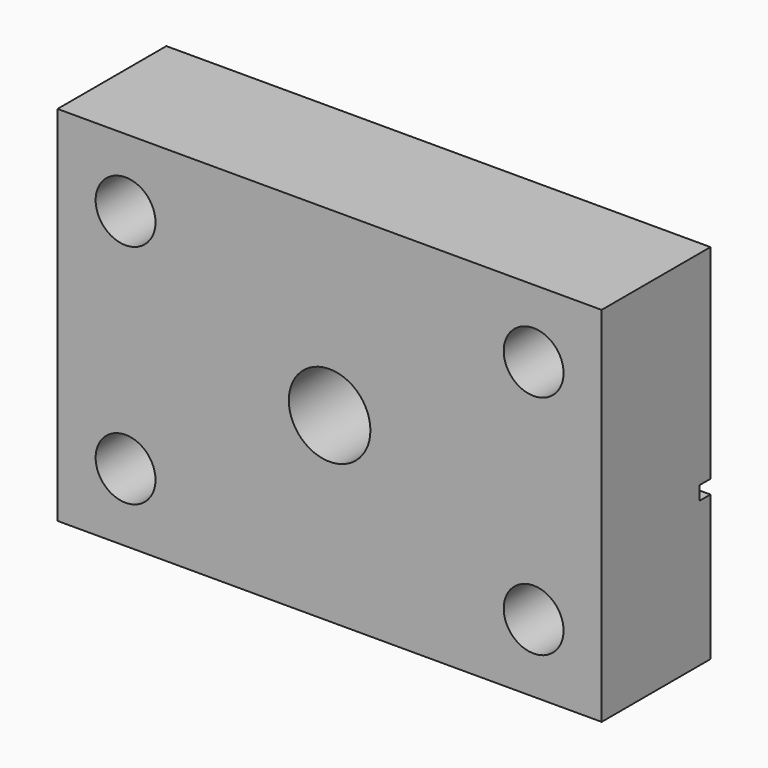
from build123d import *

# Parameters (mm, degrees)
SKETCH002_W   = 60
SKETCH002_H   = 40
PAD001_DEPTH  = 15
SKETCH003_R   = 4.5
HOLE001_DEPTH = 15.001
SKETCH004_W   = 1.52
SKETCH004_H   = 1.52
POCKET_DEPTH  = 30.001
SKETCH006_R   = 3.3
HOLE003_DEPTH = 15.001


with BuildPart() as part:
    # Sketch002 → Pad001 (new body)
    with BuildSketch(Plane.XZ):
        with Locations((0, 20)):
            Rectangle(SKETCH002_W, SKETCH002_H)
    extrude(amount=PAD001_DEPTH)

    # Sketch003 → Hole001 (cut, through all)
    with BuildSketch(Plane.XZ):
        with Locations((0, 20)):
            Circle(SKETCH003_R)
    extrude(amount=HOLE001_DEPTH, mode=Mode.SUBTRACT)

    # Sketch004 → Pocket (cut, through all)
    with BuildSketch(Plane.YZ):
        with Locations((-0.76, 16.74)):
            Rectangle(SKETCH004_W, SKETCH004_H)
    extrude(amount=POCKET_DEPTH, mode=Mode.SUBTRACT)

    # Sketch006 → Hole003 (cut, through all)
    with BuildSketch(Plane.XZ):
        with Locations((-22.5, 32.5)):
            Circle(SKETCH006_R)
        with Locations((22.5, 32.5)):
            Circle(SKETCH006_R)
        with Locations((22.5, 7.5)):
            Circle(SKETCH006_R)
        with Locations((-22.5, 7.5)):
            Circle(SKETCH006_R)
    extrude(amount=HOLE003_DEPTH, mode=Mode.SUBTRACT)


solid = part.part
